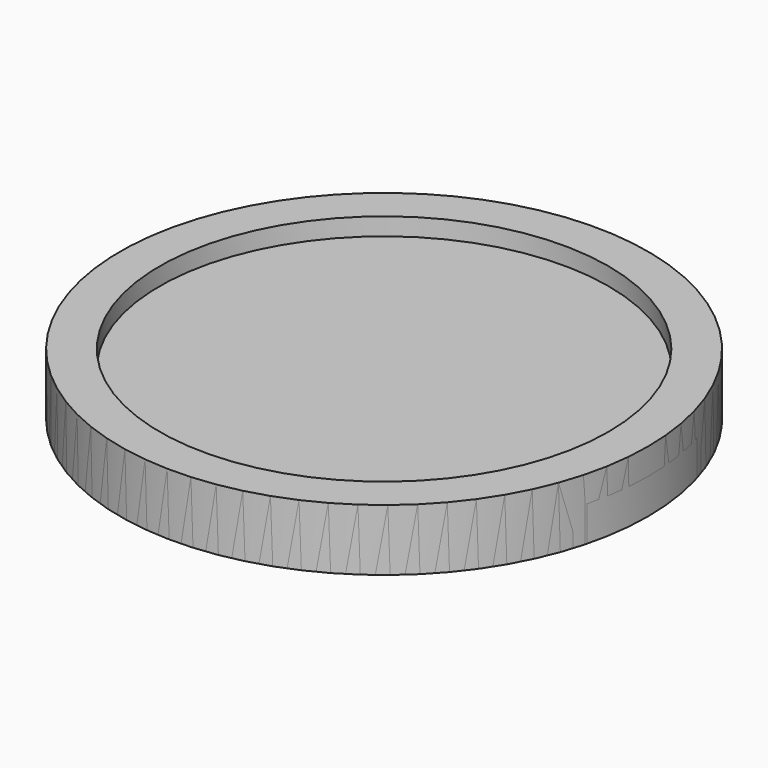
from build123d import *

# Parameters (mm, degrees)
BOX003_W          = 29
BOX003_H          = 4
BOX003_DEPTH      = 4
BOX002_W          = 34
BOX002_H          = 32
BOX002_DEPTH      = 9
BOX001_W          = 11.2
BOX001_H          = 4
BOX001_DEPTH      = 27
BOX_W             = 11.2
BOX_H             = 17
BOX_DEPTH         = 8
CYLINDER_R        = 51
CYLINDER_DEPTH    = 5
CYLINDER001_R     = 60
CYLINDER001_DEPTH = 14


with BuildPart() as cube003:
    # Box003 → Box003 (new body)
    with BuildSketch(Plane(origin=(0, 5, -5), x_dir=(1, 0, 0), z_dir=(0, 0, 1))):
        with Locations((14.5, 2)):
            Rectangle(BOX003_W, BOX003_H)
    extrude(amount=BOX003_DEPTH)


with BuildPart() as cube002:
    # Box002 → Box002 (new body)
    with BuildSketch(Plane(origin=(27, -15, -5), x_dir=(1, 0, 0), z_dir=(0, 0, 1))):
        with Locations((17, 16)):
            Rectangle(BOX002_W, BOX002_H)
    extrude(amount=BOX002_DEPTH)


with BuildPart() as cube001:
    # Box001 → Box001 (new body)
    with BuildSketch(Plane(origin=(-6, 5, -18), x_dir=(1, 0, 0), z_dir=(0, 0, 1))):
        with Locations((5.6, 2)):
            Rectangle(BOX001_W, BOX001_H)
    extrude(amount=BOX001_DEPTH)


with BuildPart() as cube:
    # Box → Box (new body)
    with BuildSketch(Plane(origin=(-6, -8, -1), x_dir=(1, 0, 0), z_dir=(0, 0, 1))):
        with Locations((5.6, 8.5)):
            Rectangle(BOX_W, BOX_H)
    extrude(amount=BOX_DEPTH)


with BuildPart() as cylinder:
    # Cylinder → Cylinder (new body)
    with BuildSketch(Plane.XY.offset(6)):
        Circle(CYLINDER_R)
    extrude(amount=CYLINDER_DEPTH)


with BuildPart() as cylinder001:
    # Cylinder001 → Cylinder001 (new body)
    with BuildSketch(Plane.XY.offset(-4)):
        Circle(CYLINDER001_R)
    extrude(amount=CYLINDER001_DEPTH)


with BuildPart() as cut005:
    # Cut001 base: copy of Cylinder001
    add(cylinder001.part)

    # Cut001: cut Cylinder
    add(cylinder.part, mode=Mode.SUBTRACT)

    # Cut002: cut Cube
    add(cube.part, mode=Mode.SUBTRACT)

    # Cut003: cut Cube001
    add(cube001.part, mode=Mode.SUBTRACT)

    # Cut004: cut Cube002
    add(cube002.part, mode=Mode.SUBTRACT)

    # Cut005: cut Cube003
    add(cube003.part, mode=Mode.SUBTRACT)


with BuildPart() as cut:
    # Cut base: copy of Cylinder001
    add(cylinder001.part)

    # Cut: cut Cylinder
    add(cylinder.part, mode=Mode.SUBTRACT)


solid = Compound([cut005.part, cut.part])
